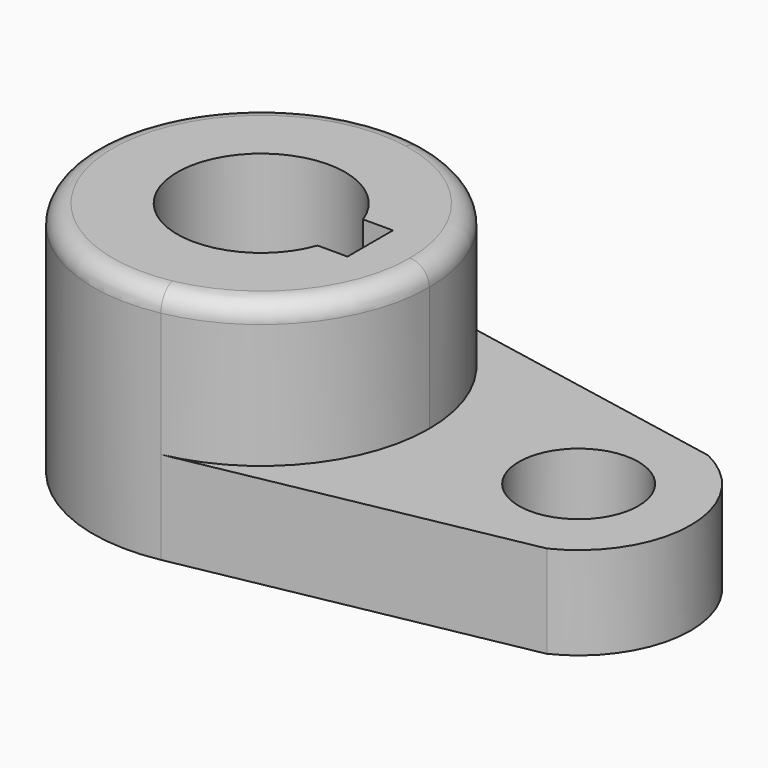
from build123d import *

# Parameters (mm, degrees)
F1_DEPTH = 40.2336
F0_R     = 10.16
F2_DEPTH = 15.7734
F3_R     = 3.302


with BuildPart() as f1:
    # F0 (on Top) → F1 (new body)
    with BuildSketch(Plane.XY):
        with BuildLine():
            ThreePointArc((-46.787253, -28.063018), (-30.144883, -18.202414), (-23.597202, 0))
            ThreePointArc((-23.597202, 0), (-30.144883, 18.202414), (-46.787253, 28.063018))
            ThreePointArc((-46.787253, 28.063018), (-80.747202, 0), (-46.787253, -28.063018))
        make_face()
        with BuildLine():
            ThreePointArc((-38.724437, -4.826), (-66.459702, 0), (-38.724437, 4.826))
            Line((-38.724437, 4.826), (-33.642902, 4.826))
            Line((-33.642902, 4.826), (-33.642902, -4.826))
            Line((-33.642902, -4.826), (-38.724437, -4.826))
        make_face(mode=Mode.SUBTRACT)
    extrude(amount=F1_DEPTH)

    # F0 (on Top) → F2 (join)
    with BuildSketch(Plane.XY):
        with BuildLine():
            ThreePointArc((-46.787253, -28.063018), (-30.144883, -18.202414), (-23.597202, 0))
            ThreePointArc((-23.597202, 0), (-30.144883, 18.202414), (-46.787253, 28.063018))
            ThreePointArc((-46.787253, 28.063018), (-80.747202, 0), (-46.787253, -28.063018))
        make_face()
        with BuildLine():
            ThreePointArc((-38.724437, -4.826), (-66.459702, 0), (-38.724437, 4.826))
            Line((-38.724437, 4.826), (-33.642902, 4.826))
            Line((-33.642902, 4.826), (-33.642902, -4.826))
            Line((-33.642902, -4.826), (-38.724437, -4.826))
        make_face(mode=Mode.SUBTRACT)
        with BuildLine():
            ThreePointArc((-46.787253, 28.063018), (-30.144883, 18.202414), (-23.597202, 0))
            ThreePointArc((-23.597202, 0), (-30.144883, -18.202414), (-46.787253, -28.063018))
            Line((-46.787253, -28.063018), (10.103749, -17.146333))
            ThreePointArc((10.103749, -17.146333), (20.852798, 0), (10.103749, 17.146333))
            Line((10.103749, 17.146333), (-46.787253, 28.063018))
        make_face()
        with Locations((1.802798, 0)):
            Circle(F0_R, mode=Mode.SUBTRACT)
    extrude(amount=F2_DEPTH)

    # F3
    f3_edges = [f1.edges().sort_by_distance(p)[0] for p in [
        (-57.55715, 28.063018, 40.2336),
    ]]
    fillet(f3_edges, radius=F3_R)


solid = f1.part
